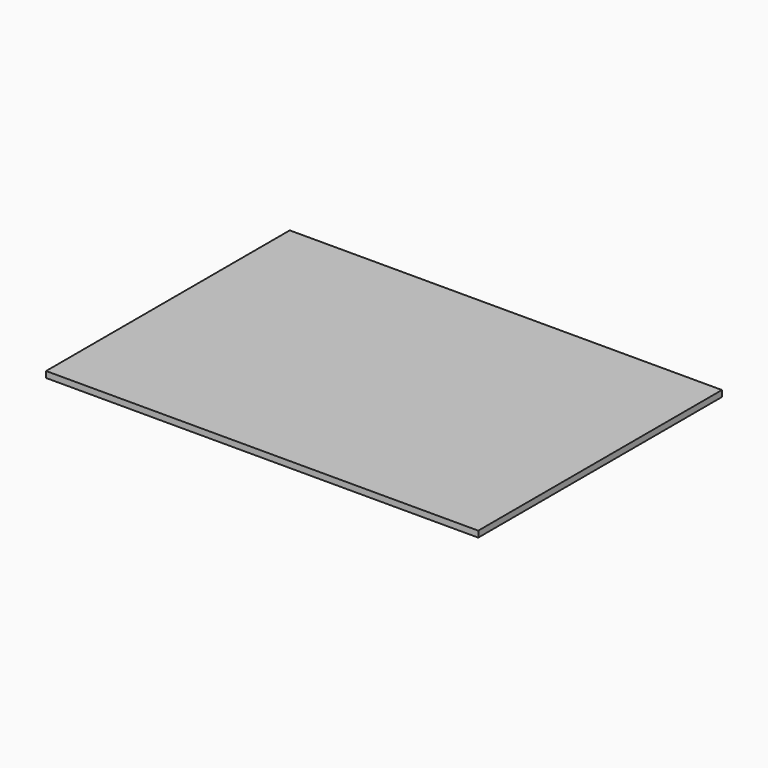
from build123d import *

# Parameters (mm, degrees)
PAD_DEPTH = 3


with BuildPart() as part:
    # Sketch → Pad (new body)
    with BuildSketch(Plane.XY):
        Polygon((0, 148), (210, 148), (210, 0), (0, 0), (0, 74), align=None)
    extrude(amount=PAD_DEPTH)


solid = part.part
